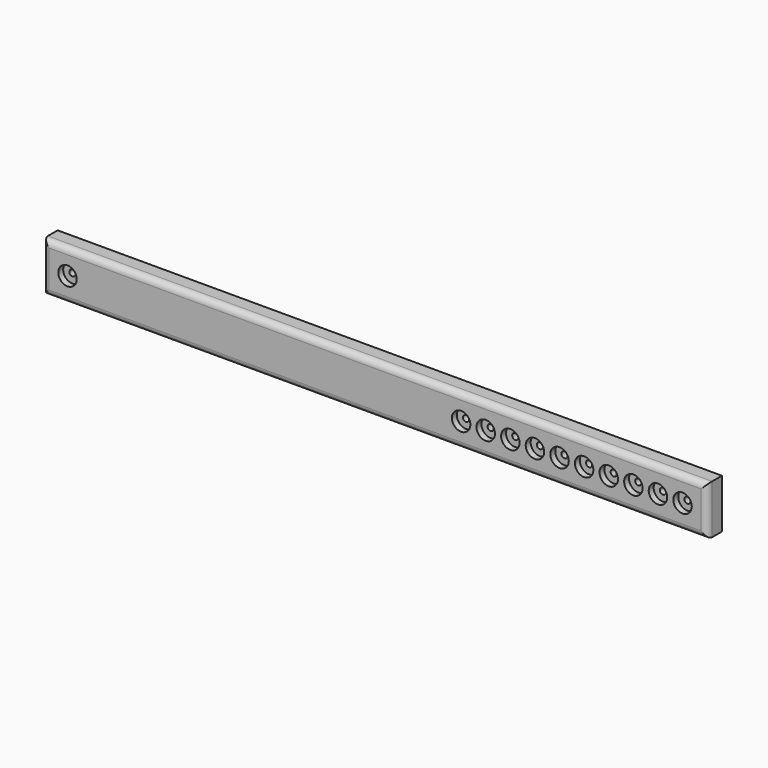
from build123d import *

# Parameters (mm, degrees)
F0_W           = 685.8
F0_H           = 50.8
F1_DEPTH       = 19.05
F3_D           = 6.35
F3_CBORE_D     = 19.05
F3_CBORE_DEPTH = 6.35
F5_D           = 6.35
F5_CBORE_D     = 19.05
F5_CBORE_DEPTH = 6.35
F6_R           = 6.35


with BuildPart() as f1:
    # F0 (on Front) → F1 (new body)
    with BuildSketch(Plane.XZ):
        Rectangle(F0_W, F0_H)
    extrude(amount=F1_DEPTH)

    # F3 (through all)
    with Locations(Plane.XZ.offset(19.05)):
        with Locations((-317.5, 0)):
            CounterBoreHole(F3_D / 2, F3_CBORE_D / 2, F3_CBORE_DEPTH)

    # F5 (through all)
    with Locations(Plane.XZ.offset(19.05)):
        with Locations((317.5, 0), (292.1, 0), (266.7, 0), (241.3, 0), (215.9, 0), (190.5, 0), (165.1, 0), (139.7, 0), (114.3, 0), (88.9, 0)):
            CounterBoreHole(F5_D / 2, F5_CBORE_D / 2, F5_CBORE_DEPTH)

    # F6
    f6_edges = [f1.edges().sort_by_distance(p)[0] for p in [
        (0, -19.05, 25.4),
        (-342.9, -19.05, 0),
        (0, -19.05, -25.4),
        (342.9, -19.05, 0),
    ]]
    fillet(f6_edges, radius=F6_R)


solid = f1.part
